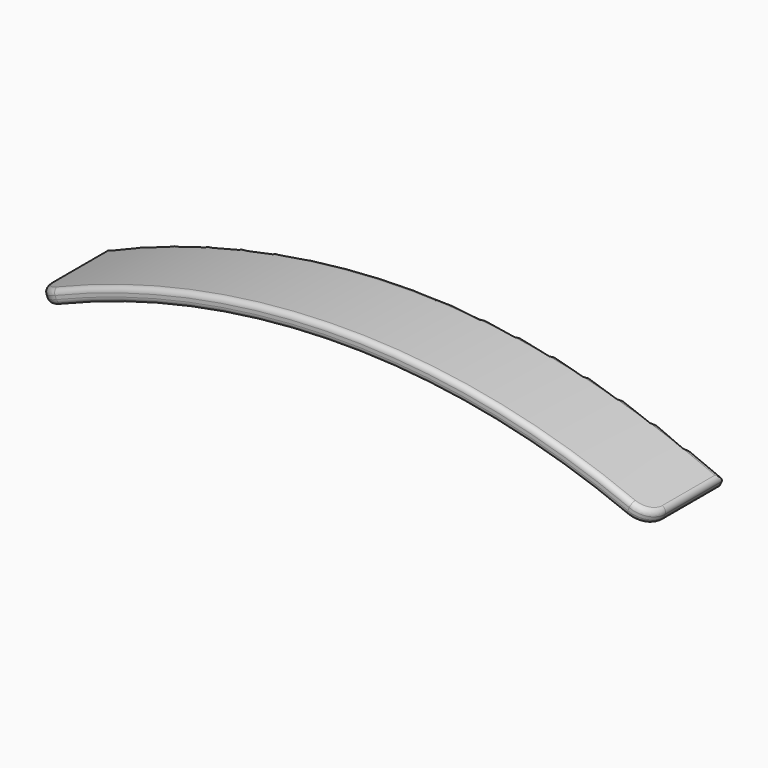
from build123d import *

# Parameters (mm, degrees)
F1_DEPTH = 26.5
F2_R     = 12
F3_R     = 3


with BuildPart() as f1:
    # F0 (on Front) → F1 (new body, symmetric)
    with BuildSketch(Plane.XZ):
        with BuildLine():
            ThreePointArc((-175, 0), (0, 37.221436), (175, 0))
            Line((175, 0), (178.255814, 7.307508))
            ThreePointArc((178.255814, 7.307508), (0, 45.221436), (-178.255814, 7.307508))
            Line((-178.255814, 7.307508), (-175, 0))
        make_face()
    extrude(amount=F1_DEPTH, both=True)

    # F2
    f2_edges = [f1.edges().sort_by_distance(p)[0] for p in [
        (-176.627907, -26.5, 3.653754),
        (176.627907, -26.5, 3.653754),
    ]]
    fillet(f2_edges, radius=F2_R)

    # F3
    f3_edges = [f1.edges().sort_by_distance(p)[0] for p in [
        (175, 6, 0),
        (171.783213, -22.985785, 1.417489),
        (0, 26.5, 37.221436),
        (0, -26.5, 37.221436),
        (-175, 6, 0),
        (-171.783212, -22.985786, 1.417489),
        (178.255814, 6, 7.307508),
        (175.03915, -22.985767, 8.72523),
        (0, 26.5, 45.221436),
        (0, -26.5, 45.221436),
        (-178.255814, 6, 7.307508),
        (-175.03915, -22.985767, 8.725229),
    ]]
    fillet(f3_edges, radius=F3_R)


solid = f1.part
